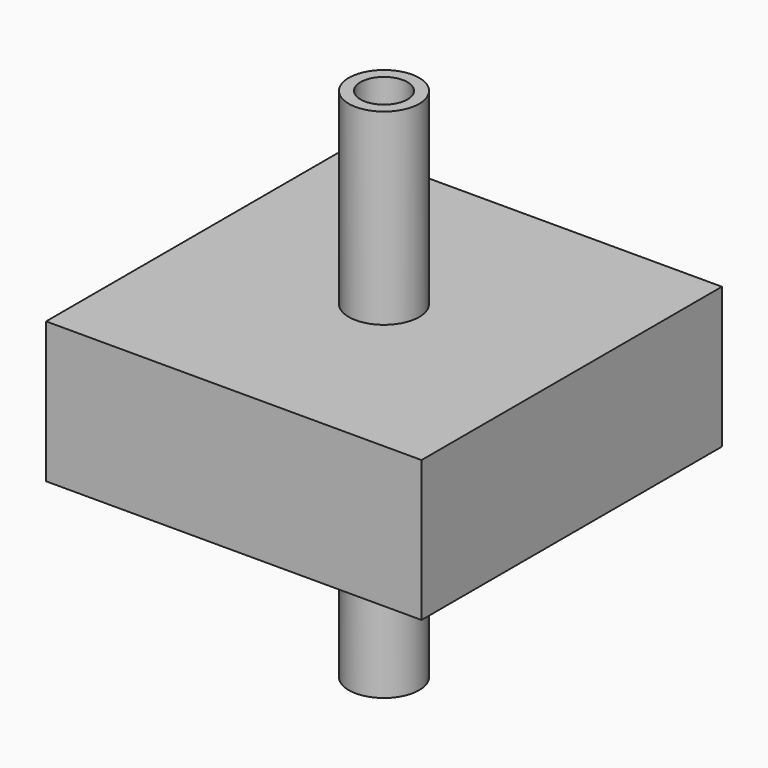
from build123d import *

# Parameters (mm, degrees)
F0_W      = 50.8
F0_H      = 50.8
F1_DEPTH  = 19.05
F2_W      = 38.1
F2_H      = 3.81
F3_DEPTH  = 38.1
F5_R      = 4.7625
F6_DEPTH  = 25.4
F7_R      = 4.7625
F8_DEPTH  = 25.4
F9_R      = 3.175
F10_DEPTH = 74.676


with BuildPart() as f1:
    # F0 (on Top) → F1 (new body)
    with BuildSketch(Plane.XY):
        Rectangle(F0_W, F0_H)
    extrude(amount=F1_DEPTH)

    # F2 (on face) → F3 (cut)
    with BuildSketch(Plane(origin=(0, 25.4, 0), x_dir=(-1, 0, 0), z_dir=(0, 1, 0))):
        with Locations((0, 9.525)):
            Rectangle(F2_W, F2_H)
    extrude(amount=-F3_DEPTH, mode=Mode.SUBTRACT)

    # F5 (on face) → F6 (join)
    with BuildSketch(Plane.XY.offset(19.05)):
        Circle(F5_R)
    extrude(amount=F6_DEPTH)

    # F7 (on face) → F8 (join)
    with BuildSketch(Plane(origin=(0, 0, 0), x_dir=(1, 0, 0), z_dir=(0, 0, -1))):
        Circle(F7_R)
    extrude(amount=F8_DEPTH)

    # F9 (on face) → F10 (cut)
    with BuildSketch(Plane(origin=(0, 0, -25.4), x_dir=(1, 0, 0), z_dir=(0, 0, -1))):
        Circle(F9_R)
    extrude(amount=-F10_DEPTH, mode=Mode.SUBTRACT)


solid = f1.part
